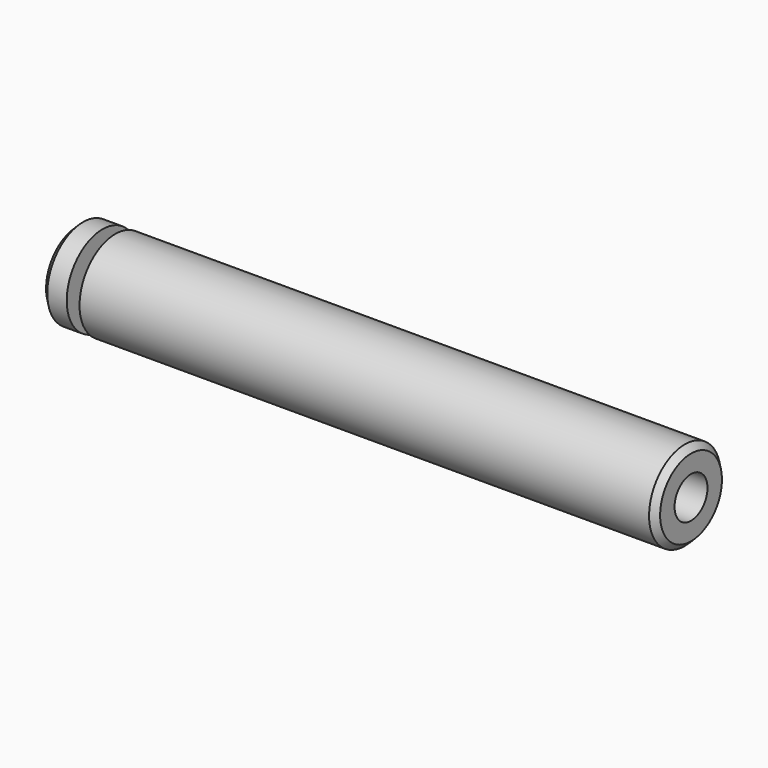
from build123d import *

# Parameters (mm, degrees)
F2_SIZE  = 0.762
F4_D     = 5.1054
F4_DEPTH = 25.4
F4_TIP   = 1.5338169022


with BuildPart() as f1:
    # F0 (on Front) → F1 (revolve)
    with BuildSketch(Plane.XZ):
        Polygon((4.7625, 0), (76.2, 0), (76.2, 5.55625), (0, 5.55625), (0, 0), (3.175, 0), (3.175, 3.5687), (4.7625, 3.5687), align=None)
    revolve(axis=Axis((38.1, 0, 5.55625), (1, 0, 0)))

    # F2
    f2_edges = [f1.edges().sort_by_distance(p)[0] for p in [
        (0, 0, 11.1125),
        (76.2, 0, 11.1125),
    ]]
    chamfer(f2_edges, length=F2_SIZE)

    # F4
    with Locations(Plane.YZ.offset(76.2)):
        with Locations((0, 5.55625)):
            Hole(F4_D / 2, depth=F4_DEPTH)
            with Locations((0, 0, -(F4_DEPTH + F4_TIP / 2))):  # 118° drill point
                Cone(0, F4_D / 2, F4_TIP, mode=Mode.SUBTRACT)


solid = f1.part
